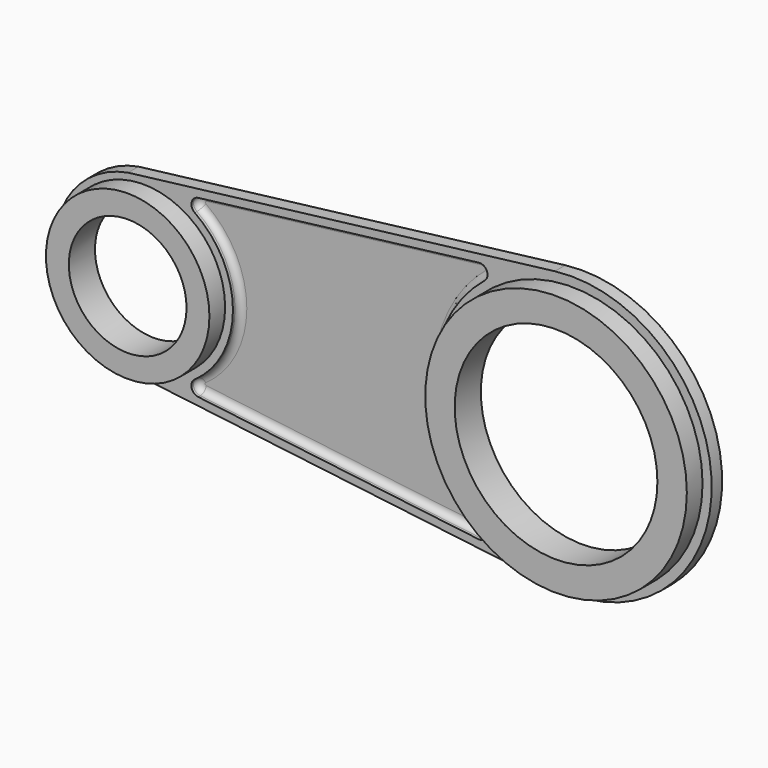
from build123d import *

# Parameters (mm, degrees)
F0_R          = 62.5
F0_R_2        = 100
F1_DEPTH      = 10
F2_R          = 62.5
F2_R_2        = 45
F2_R_3        = 100
F2_R_4        = 77.5
F3_DEPTH      = 15
F3_DEPTH_BACK = 10
F5_DEPTH      = 7
F6_R          = 5


with BuildPart() as f1:
    # F0 (on Front) → F1 (new body)
    with BuildSketch(Plane.XZ):
        with BuildLine():
            Line((-335.641221, -67.007242), (-12.905344, -106.218888))
            ThreePointArc((-12.905344, -106.218888), (106.999999, 0.015565), (-12.936245, 106.215129))
            Line((-12.936245, 106.215129), (-339.19516, 66.479119))
            ThreePointArc((-339.19516, 66.479119), (-394.976089, -1.796482), (-335.641221, -67.007242))
        make_face()
        with Locations((-327.5, 0)):
            Circle(F0_R, mode=Mode.SUBTRACT)
        Circle(F0_R_2, mode=Mode.SUBTRACT)
    extrude(amount=F1_DEPTH)

    # F2 (on face) → F3 (join, two sides)
    with BuildSketch(Plane.XZ.offset(10)) as f3_sk:
        with Locations((-327.5, 0)):
            Circle(F2_R)
        with Locations((-327.5, 0)):
            Circle(F2_R_2, mode=Mode.SUBTRACT)
        Circle(F2_R_3)
        Circle(F2_R_4, mode=Mode.SUBTRACT)
    extrude(amount=F3_DEPTH)
    extrude(f3_sk.sketch, amount=-F3_DEPTH_BACK)

    # F4 (on face) → F5 (cut)
    with BuildSketch(Plane.XZ.offset(10)):
        with BuildLine():
            ThreePointArc((-66.577581, -82.482881), (-105.999999, -0.015419), (-66.601576, 82.463508))
            ThreePointArc((-66.601576, 82.463508), (-64.845792, 89.469376), (-71.096873, 93.087242))
            Line((-71.096873, 93.087242), (-285.484696, 66.976334))
            ThreePointArc((-285.484696, 66.976334), (-290.580254, 62.475162), (-288.201504, 56.105955))
            ThreePointArc((-288.201504, 56.105955), (-259.000022, -0.055148), (-288.291894, -56.169159))
            ThreePointArc((-288.291894, -56.169159), (-290.67952, -62.540062), (-285.581272, -67.045285))
            Line((-285.581272, -67.045285), (-71.069788, -93.107923))
            ThreePointArc((-71.069788, -93.107923), (-64.81976, -89.488238), (-66.577581, -82.482881))
        make_face()
    extrude(amount=-F5_DEPTH, mode=Mode.SUBTRACT)

    # F6
    f6_edges = [f1.edges().sort_by_distance(p)[0] for p in [
        (-105.999999, -3, -0.015419),
    ]]
    fillet(f6_edges, radius=F6_R)


solid = f1.part
